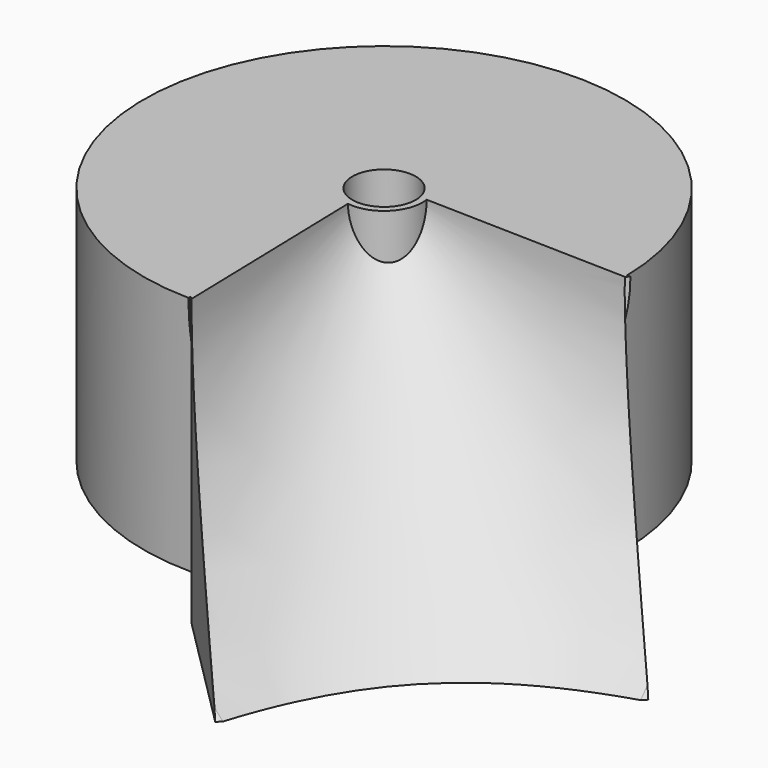
from build123d import *

# Parameters (mm, degrees)
CYLINDER009_R               = 15
CYLINDER009_DEPTH           = 80
CYLINDER009_PLACEMENT_ANGLE = 39
BOX010_W                    = 44
BOX010_H                    = 8
BOX010_DEPTH                = 80
BOX010_PLACEMENT_ANGLE      = 42
CYLINDER010_R               = 1
CYLINDER010_DEPTH           = 10
CYLINDER010_PLACEMENT_ANGLE = 45
CYLINDER011_R               = 1
CYLINDER011_DEPTH           = 10
CYLINDER011_PLACEMENT_ANGLE = 45
BOX011_W                    = 20
BOX011_H                    = 11
BOX011_DEPTH                = 80
BOX011_PLACEMENT_ANGLE      = 45
CYLINDER007_R               = 8.5
CYLINDER007_DEPTH           = 45
BOX005_W                    = 100
BOX005_H                    = 200
BOX005_DEPTH                = 50
BOX005_PITCH_ANGLE          = 60
BOX005_PLACEMENT_ANGLE      = -45
BOX016_W                    = 100
BOX016_H                    = 100
BOX016_DEPTH                = 100
BOX016_PLACEMENT_ANGLE      = 45
BOX017_W                    = 100
BOX017_H                    = 100
BOX017_DEPTH                = 100
BOX017_PLACEMENT_ANGLE      = 45
BOX018_W                    = 200
BOX018_H                    = 200
BOX018_DEPTH                = 200
CONE003_ANGLE               = 180
CONE003_ROLL_ANGLE          = -90
CONE003_PLACEMENT_ANGLE     = -135
CONE002_ANGLE               = 180
CONE002_ROLL_ANGLE          = -90
CONE002_PLACEMENT_ANGLE     = -135
CYLINDER018_R               = 53
CYLINDER018_DEPTH           = 60
BOX019_W                    = 38
BOX019_H                    = 75
BOX019_DEPTH                = 63
BOX019_PLACEMENT_ANGLE      = 45
CYLINDER006_R               = 53
CYLINDER006_DEPTH           = 53
TUBE009_R                   = 8.5
TUBE009_R_2                 = 7
TUBE009_DEPTH               = 53


with BuildPart() as cylinder009:
    # Cylinder009 → Cylinder009 (new body)
    with BuildSketch(Plane.XY):
        Circle(CYLINDER009_R)
    extrude(amount=CYLINDER009_DEPTH)


with BuildPart() as cylinder009_1:
    # Cylinder009 placement: moved
    add(cylinder009.part.moved(Location((-5.423136, 5.902507, -91))).rotate(Axis((-5.423136, 5.902507, -91), (0, 0, 1)), CYLINDER009_PLACEMENT_ANGLE))


with BuildPart() as cube010:
    # Box010 → Box010 (new body)
    with BuildSketch(Plane.XY):
        with Locations((22, 4)):
            Rectangle(BOX010_W, BOX010_H)
    extrude(amount=BOX010_DEPTH)


with BuildPart() as cube010_1:
    # Box010 placement: moved
    add(cube010.part.moved(Location((-19.127921, -11.982839, -91))).rotate(Axis((-19.127921, -11.982839, -91), (0, 0, 1)), BOX010_PLACEMENT_ANGLE))


with BuildPart() as cone004:
    # Cone004 → Cone004 (revolve)
    with BuildSketch(Plane(origin=(0, 0, -53), x_dir=(1, 0, 0), z_dir=(0, -1, 0))):
        Polygon((0, 0), (51.5, 0), (20, 29), (0, 29), align=None)
    revolve(axis=Axis((0, 0, -53), (0, 0, 1)))


with BuildPart() as cylinder010:
    # Cylinder010 → Cylinder010 (new body)
    with BuildSketch(Plane.XY):
        Circle(CYLINDER010_R)
    extrude(amount=CYLINDER010_DEPTH)


with BuildPart() as cylinder010_1:
    # Cylinder010 placement: moved
    add(cylinder010.part.moved(Location((-18.384776, -7.071068, -11))).rotate(Axis((-18.384776, -7.071068, -11), (0, 0, 1)), CYLINDER010_PLACEMENT_ANGLE))


with BuildPart() as cylinder011:
    # Cylinder011 → Cylinder011 (new body)
    with BuildSketch(Plane.XY):
        Circle(CYLINDER011_R)
    extrude(amount=CYLINDER011_DEPTH)


with BuildPart() as cylinder011_1:
    # Cylinder011 placement: moved
    add(cylinder011.part.moved(Location((8.485281, 18.384776, -11))).rotate(Axis((8.485281, 18.384776, -11), (0, 0, 1)), CYLINDER011_PLACEMENT_ANGLE))


with BuildPart() as fusion010:
    # Box011 → Box011 (new body)
    with BuildSketch(Plane.XY):
        with Locations((10, 5.5)):
            Rectangle(BOX011_W, BOX011_H)
    extrude(amount=BOX011_DEPTH)


with BuildPart() as fusion010_1:
    # Box011 placement: moved
    add(fusion010.part.moved(Location((-19.79899, 7.071068, -91))).rotate(Axis((-19.79899, 7.071068, -91), (0, 0, 1)), BOX011_PLACEMENT_ANGLE))

    # Fusion010: union Cylinder009, Cube010, Cone004, Cylinder010, Cylinder011
    add(cylinder009_1.part)
    add(cube010_1.part)
    add(cone004.part)
    add(cylinder010_1.part)
    add(cylinder011_1.part)


with BuildPart() as cylinder007:
    # Cylinder007 → Cylinder007 (new body)
    with BuildSketch(Plane.XY.offset(-43)):
        Circle(CYLINDER007_R)
    extrude(amount=CYLINDER007_DEPTH)


with BuildPart() as cube005:
    # Box005 → Box005 (new body)
    with BuildSketch(Plane.XY):
        with Locations((50, 100)):
            Rectangle(BOX005_W, BOX005_H)
    extrude(amount=BOX005_DEPTH)


with BuildPart() as cube005_1:
    # Box005 pitch: moved
    add(cube005.part.rotate(Axis((0, 0, 0), (0, 1, 0)), BOX005_PITCH_ANGLE))


with BuildPart() as cube005_2:
    # Box005 placement: moved
    add(cube005_1.part.moved(Location((-38.183766, -91.923882, 0))).rotate(Axis((-38.183766, -91.923882, 0), (0, 0, 1)), BOX005_PLACEMENT_ANGLE))


with BuildPart() as cube016:
    # Box016 → Box016 (new body)
    with BuildSketch(Plane.XY):
        with Locations((50, 50)):
            Rectangle(BOX016_W, BOX016_H)
    extrude(amount=BOX016_DEPTH)


with BuildPart() as cube016_1:
    # Box016 placement: moved
    add(cube016.part.moved(Location((-71.320657, -123.15444, -92))).rotate(Axis((-71.320657, -123.15444, -92), (0, 0, -1)), BOX016_PLACEMENT_ANGLE))


with BuildPart() as cube017:
    # Box017 → Box017 (new body)
    with BuildSketch(Plane.XY):
        with Locations((50, 50)):
            Rectangle(BOX017_W, BOX017_H)
    extrude(amount=BOX017_DEPTH)


with BuildPart() as cube017_1:
    # Box017 placement: moved
    add(cube017.part.moved(Location((53.030932, 0.040624, -92))).rotate(Axis((53.030932, 0.040624, -92), (0, 0, -1)), BOX017_PLACEMENT_ANGLE))


with BuildPart() as cube018:
    # Box018 → Box018 (new body)
    with BuildSketch(Plane(origin=(-111, -128, -263), x_dir=(1, 0, 0), z_dir=(0, 0, 1))):
        with Locations((100, 100)):
            Rectangle(BOX018_W, BOX018_H)
    extrude(amount=BOX018_DEPTH)


with BuildPart() as fusion009004:
    # Cone003 → Cone003 (revolve)
    with BuildSketch(Plane.XZ):
        Polygon((0, 0), (2, 0), (78, 80), (0, 80), align=None)
    revolve(axis=Axis((0, 0, 0), (0, 0, 1)), revolution_arc=CONE003_ANGLE)


with BuildPart() as fusion009004_1:
    # Cone003 roll: moved
    add(fusion009004.part.rotate(Axis((0, 0, 0), (1, 0, 0)), CONE003_ROLL_ANGLE))


with BuildPart() as fusion009004_2:
    # Cone003 placement: moved
    add(fusion009004_1.part.rotate(Axis((0, 0, 0), (0, 0, 1)), CONE003_PLACEMENT_ANGLE))

    # Fusion009004: union Cube016, Cube017, Cube018
    add(cube016_1.part)
    add(cube017_1.part)
    add(cube018.part)


with BuildPart() as obj1:
    # Cone002 → Cone002 (revolve)
    with BuildSketch(Plane.XZ):
        Polygon((0, 0), (2, 0), (80, 80), (0, 80), align=None)
    revolve(axis=Axis((0, 0, 0), (0, 0, 1)), revolution_arc=CONE002_ANGLE)


with BuildPart() as obj1_1:
    # Cone002 roll: moved
    add(obj1.part.rotate(Axis((0, 0, 0), (1, 0, 0)), CONE002_ROLL_ANGLE))


with BuildPart() as obj1_2:
    # Cone002 placement: moved
    add(obj1_1.part.rotate(Axis((0, 0, 0), (0, 0, 1)), CONE002_PLACEMENT_ANGLE))


with BuildPart() as cut007:
    # Cut004 base: copy of obj1
    add(obj1_2.part)

    # Cut004: cut Fusion009004
    add(fusion009004_2.part, mode=Mode.SUBTRACT)

    # Cut007: cut Cube005
    add(cube005_2.part, mode=Mode.SUBTRACT)


with BuildPart() as cylinder018:
    # Cylinder018 → Cylinder018 (new body)
    with BuildSketch(Plane.XY.offset(-63)):
        Circle(CYLINDER018_R)
    extrude(amount=CYLINDER018_DEPTH)


with BuildPart() as cut009005:
    # Box019 → Box019 (new body)
    with BuildSketch(Plane.XY):
        with Locations((19, 37.5)):
            Rectangle(BOX019_W, BOX019_H)
    extrude(amount=BOX019_DEPTH)


with BuildPart() as cut009005_1:
    # Box019 placement: moved
    add(cut009005.part.moved(Location((-0.609979, -52.443762, -63))).rotate(Axis((-0.609979, -52.443762, -63), (0, 0, -1)), BOX019_PLACEMENT_ANGLE))

    # Cut009005: cut Cylinder018
    add(cylinder018.part, mode=Mode.SUBTRACT)


with BuildPart() as cut006:
    # Cylinder006 → Cylinder006 (new body)
    with BuildSketch(Plane.XY.offset(-53)):
        Circle(CYLINDER006_R)
    extrude(amount=CYLINDER006_DEPTH)

    # Fusion009005: union Cut009005
    add(cut009005_1.part)

    # Cut005: cut obj1
    add(obj1_2.part, mode=Mode.SUBTRACT)

    # Fusion005: union Cut007
    add(cut007.part)

    # Cut006: cut Cylinder007
    add(cylinder007.part, mode=Mode.SUBTRACT)


with BuildPart() as cut009_middle:
    # Tube009 → Tube009 (new body)
    with BuildSketch(Plane.XY.offset(-53)):
        Circle(TUBE009_R)
        Circle(TUBE009_R_2, mode=Mode.SUBTRACT)
    extrude(amount=TUBE009_DEPTH)

    # Fusion006: union Cut006
    add(cut006.part)

    # Cut009: cut Fusion010
    add(fusion010_1.part, mode=Mode.SUBTRACT)


solid = cut009_middle.part
